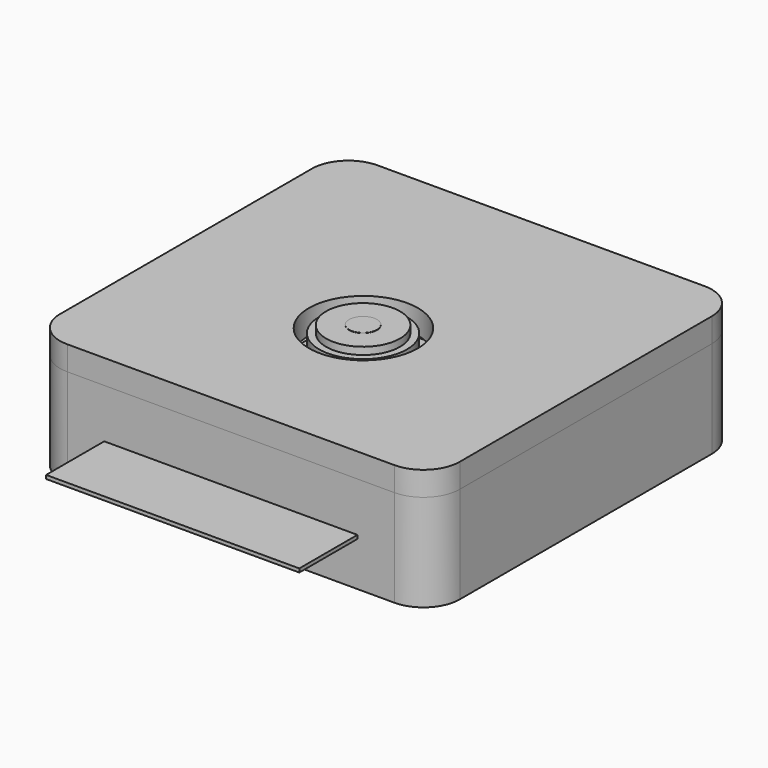
from build123d import *

# Parameters (mm, degrees)
F1_DEPTH  = 1
F2_R      = 1.1
F3_DEPTH  = 1
F4_W      = 8.41
F4_H      = 8.41
F5_DEPTH  = 2.05
F6_R      = 3.625
F6_R_2    = 3.05
F6_R_3    = 1.15
F7_DEPTH  = 1.65
F8_DEPTH  = 2.25
F9_DEPTH  = 2.27
F10_W     = 20.9
F10_H     = 5.8
F11_DEPTH = 2.62
F12_W     = 20.9
F12_H     = 0.3
F13_DEPTH = 10
F14_R     = 2.25
F15_DEPTH = 2.05
F16_R     = 4.5
F17_DEPTH = 2
F19_DEPTH = 8


with BuildPart() as f1:
    # F0 (on Top) → F1 (new body)
    with BuildSketch(Plane.XY):
        with BuildLine():
            ThreePointArc((12.5, 10), (11.914214, 11.414214), (10.5, 12))
            Line((10.5, 12), (-10.5, 12))
            ThreePointArc((-10.5, 12), (-11.914214, 11.414214), (-12.5, 10))
            Line((-12.5, 10), (-12.5, -10))
            ThreePointArc((-12.5, -10), (-11.914214, -11.414214), (-10.5, -12))
            Line((-10.5, -12), (10.5, -12))
            ThreePointArc((10.5, -12), (11.914214, -11.414214), (12.5, -10))
            Line((12.5, -10), (12.5, 10))
        make_face()
    extrude(amount=-F1_DEPTH)

    # F2 (on face) → F3 (cut, through all)
    with BuildSketch(Plane.XY):
        with Locations((-10.5, 10)):
            Circle(F2_R)
        with Locations((-10.5, -2.5)):
            Circle(F2_R)
        with Locations((10.5, -2.5)):
            Circle(F2_R)
        with Locations((10.5, 10)):
            Circle(F2_R)
    extrude(amount=-F3_DEPTH, mode=Mode.SUBTRACT)

    # F14 (on face) → F15 (join, through all)
    with BuildSketch(Plane.XY):
        with Locations((-10.5, 10)):
            Circle(F14_R)
        with Locations((10.5, 10)):
            Circle(F14_R)
        with Locations((10.5, -2.5)):
            Circle(F14_R)
        with Locations((-10.5, -2.5)):
            Circle(F14_R)
    extrude(amount=F15_DEPTH)


with BuildPart() as f5:
    # F4 (on face) → F5 (new body)
    with BuildSketch(Plane.XY):
        with Locations((0, -2.355)):
            Rectangle(F4_W, F4_H)
    extrude(amount=F5_DEPTH)

    # F6 (on face) → F7 (join)
    with BuildSketch(Plane.XY.offset(2.05)):
        with Locations((0, -2.355)):
            Circle(F6_R)
        with Locations((0, -2.355)):
            Circle(F6_R_2, mode=Mode.SUBTRACT)
        with Locations((0, -2.355)):
            Circle(F6_R_2)
        with Locations((0, -2.355)):
            Circle(F6_R_3, mode=Mode.SUBTRACT)
        with Locations((0, -2.355)):
            Circle(F6_R_3)
    extrude(amount=F7_DEPTH)

    # F6 (on face) → F8 (join)
    with BuildSketch(Plane.XY.offset(2.05)):
        with Locations((0, -2.355)):
            Circle(F6_R_2)
        with Locations((0, -2.355)):
            Circle(F6_R_3, mode=Mode.SUBTRACT)
        with Locations((0, -2.355)):
            Circle(F6_R_3)
    extrude(amount=F8_DEPTH)


with BuildPart() as f9:
    # F6 (on face) → F9 (new body)
    with BuildSketch(Plane.XY.offset(2.05)):
        with Locations((0, -2.355)):
            Circle(F6_R_3)
    extrude(amount=F9_DEPTH)


with BuildPart() as f11:
    # F10 (on face) → F11 (new body)
    with BuildSketch(Plane(origin=(0, 0, -1), x_dir=(1, 0, 0), z_dir=(0, 0, -1))):
        with Locations((0, 9.1)):
            Rectangle(F10_W, F10_H)
    extrude(amount=F11_DEPTH)


with BuildPart() as f13:
    # F12 (on face) → F13 (new body)
    with BuildSketch(Plane.XZ.offset(12)):
        with Locations((0, -2.16)):
            Rectangle(F12_W, F12_H)
    extrude(amount=F13_DEPTH)


with BuildPart() as f17:
    # F16 (on face) → F17 (new body)
    with BuildSketch(Plane.XY.offset(2.05)):
        with BuildLine():
            ThreePointArc((16.5, 13), (15.62132, 15.12132), (13.5, 16))
            Line((13.5, 16), (-13.5, 16))
            ThreePointArc((-13.5, 16), (-15.62132, 15.12132), (-16.5, 13))
            Line((-16.5, 13), (-16.5, -13))
            ThreePointArc((-16.5, -13), (-15.62132, -15.12132), (-13.5, -16))
            Line((-13.5, -16), (13.5, -16))
            ThreePointArc((13.5, -16), (15.62132, -15.12132), (16.5, -13))
            Line((16.5, -13), (16.5, 13))
        make_face()
        with Locations((0, -2.315999)):
            Circle(F16_R, mode=Mode.SUBTRACT)
    extrude(amount=F17_DEPTH)


with BuildPart() as f19:
    # F18 (on face) → F19 (new body)
    with BuildSketch(Plane(origin=(0, 0, 2.05), x_dir=(1, 0, 0), z_dir=(0, 0, -1))):
        with BuildLine():
            ThreePointArc((-16.5, -13), (-15.62132, -15.12132), (-13.5, -16))
            Line((-13.5, -16), (13.5, -16))
            ThreePointArc((13.5, -16), (15.62132, -15.12132), (16.5, -13))
            Line((16.5, -13), (16.5, 13))
            ThreePointArc((16.5, 13), (15.62132, 15.12132), (13.5, 16))
            Line((13.5, 16), (-13.5, 16))
            ThreePointArc((-13.5, 16), (-15.62132, 15.12132), (-16.5, 13))
            Line((-16.5, 13), (-16.5, -13))
        make_face()
        with BuildLine():
            Line((11.53, -14), (-11.5, -14))
            ThreePointArc((-11.5, -14), (-13.62132, -13.12132), (-14.5, -11))
            Line((-14.5, -11), (-14.5, 11))
            ThreePointArc((-14.5, 11), (-13.62132, 13.12132), (-11.5, 14))
            Line((-11.5, 14), (11.53, 14))
            ThreePointArc((11.53, 14), (13.65132, 13.12132), (14.53, 11))
            Line((14.53, 11), (14.53, -11))
            ThreePointArc((14.53, -11), (13.65132, -13.12132), (11.53, -14))
        make_face(mode=Mode.SUBTRACT)
    extrude(amount=F19_DEPTH)


solid = Compound([f1.part, f5.part, f9.part, f11.part, f13.part, f17.part, f19.part])
